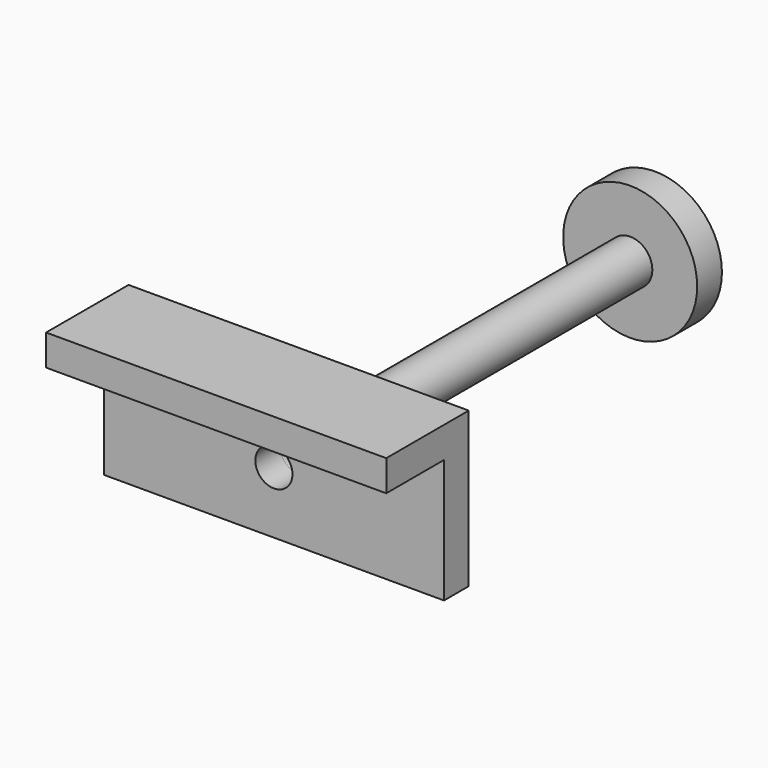
from build123d import *

# Parameters (mm, degrees)
F0_R      = 6.5
F1_DEPTH  = 3
F2_R      = 2.15
F3_DEPTH  = 40.2
F4_R      = 1.8
F5_DEPTH  = 12
F6_W      = 33
F6_H      = 12
F7_DEPTH  = 3
F8_W      = 33
F8_H      = 10
F9_DEPTH  = 3
F10_R     = 1.8
F11_DEPTH = 46.201


with BuildPart() as f1:
    # F0 (on Front) → F1 (new body)
    with BuildSketch(Plane.XZ):
        Circle(F0_R)
    extrude(amount=F1_DEPTH)

    # F2 (on face) → F3 (join)
    with BuildSketch(Plane.XZ.offset(3)):
        Circle(F2_R)
    extrude(amount=F3_DEPTH)

    # F4 (on face) → F5 (cut)
    with BuildSketch(Plane.XZ.offset(43.2)):
        Circle(F4_R)
    extrude(amount=-F5_DEPTH, mode=Mode.SUBTRACT)


with BuildPart() as f7:
    # F6 (on face) → F7 (new body)
    with BuildSketch(Plane.XZ.offset(43.2)):
        Rectangle(F6_W, F6_H)
    extrude(amount=F7_DEPTH)

    # F8 (on face) → F9 (join)
    with BuildSketch(Plane.XY.offset(6)):
        with Locations((0, -48.2)):
            Rectangle(F8_W, F8_H)
    extrude(amount=F9_DEPTH)

    # F10 (on face) → F11 (cut, through all)
    with BuildSketch(Plane.XZ.offset(46.2)):
        Circle(F10_R)
    extrude(amount=-F11_DEPTH, mode=Mode.SUBTRACT)


solid = Compound([f1.part, f7.part])
